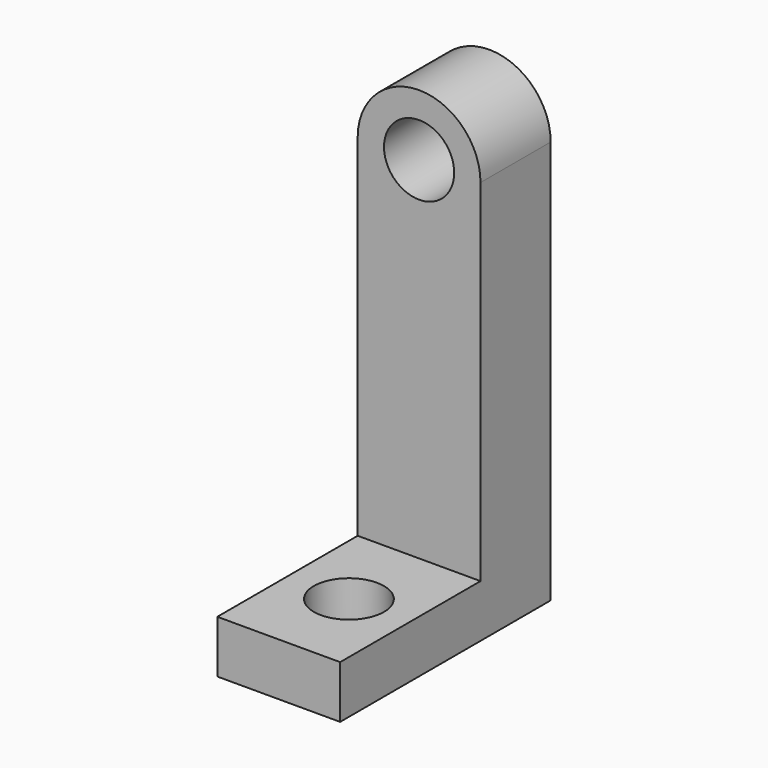
from build123d import *

# Parameters (mm, degrees)
F0_W     = 7
F0_H     = 5
F0_H_2   = 10
F1_DEPTH = 3
F2_W     = 7
F2_H     = 5
F3_DEPTH = 20
F5_DEPTH = 5
F6_R     = 2
F7_DEPTH = 5
F8_R     = 2
F9_DEPTH = 3


with BuildPart() as f1:
    # F0 (on Top) → F1 (new body)
    with BuildSketch(Plane.XY):
        with Locations((-4.6964466444, 11.5613198653)):
            Rectangle(F0_W, F0_H)
        with Locations((-4.6964466444, 4.0613198653)):
            Rectangle(F0_W, F0_H_2)
    extrude(amount=F1_DEPTH)

    # F2 (on face) → F3 (join)
    with BuildSketch(Plane.XY.offset(3)):
        with Locations((-4.6964466444, 11.5613198653)):
            Rectangle(F2_W, F2_H)
    extrude(amount=F3_DEPTH)

    # F4 (on face) → F5 (join, through all)
    with BuildSketch(Plane(origin=(0, 14.0613198653, 0), x_dir=(-1, 0, 0), z_dir=(0, 1, 0))):
        with BuildLine():
            Line((1.1964466444, 23), (8.1964466444, 23))
            ThreePointArc((8.1964466444, 23), (4.6964466444, 26.5), (1.1964466444, 23))
        make_face()
    extrude(amount=-F5_DEPTH)

    # F6 (on face) → F7 (cut, through all)
    with BuildSketch(Plane(origin=(0, 14.0613198653, 0), x_dir=(-1, 0, 0), z_dir=(0, 1, 0))):
        with Locations((4.6964466444, 23)):
            Circle(F6_R)
    extrude(amount=-F7_DEPTH, mode=Mode.SUBTRACT)

    # F8 (on face) → F9 (cut, through all)
    with BuildSketch(Plane.XY.offset(3)):
        with Locations((-4.6964466444, 4.0613198653)):
            Circle(F8_R)
    extrude(amount=-F9_DEPTH, mode=Mode.SUBTRACT)


solid = f1.part
